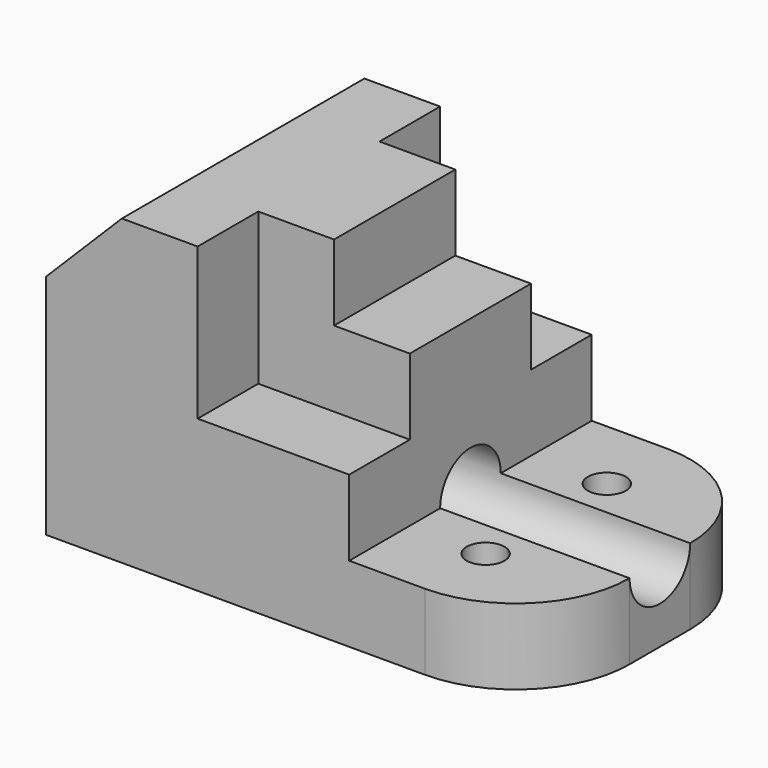
from build123d import *

# Parameters (mm, degrees)
F0_R     = 3.175
F0_W     = 31.75
F0_H     = 12.7
F1_DEPTH = 12.7
F2_DEPTH = 25.4
F3_DEPTH = 38.1
F0_W_2   = 12.7
F0_H_2   = 50.8
F4_DEPTH = 50.8
F6_DEPTH = 50.801
F8_DEPTH = 82.551


with BuildPart() as f1:
    # F0 (on Top) → F1 (new body)
    with BuildSketch(Plane.XY):
        with BuildLine():
            Line((12.7, -12.7), (12.7, -25.4))
            Line((12.7, -25.4), (25.4, -25.4))
            ThreePointArc((25.4, -25.4), (38.870384, -19.820384), (44.45, -6.35))
            Line((44.45, -6.35), (12.7, -6.35))
            Line((12.7, -6.35), (12.7, -12.7))
        make_face()
        with Locations((25.4, -12.7)):
            Circle(F0_R, mode=Mode.SUBTRACT)
        with Locations((28.575, 0)):
            Rectangle(F0_W, F0_H)
        with BuildLine():
            Line((25.4, 25.4), (12.7, 25.4))
            Line((12.7, 25.4), (12.7, 12.7))
            Line((12.7, 12.7), (12.7, 6.35))
            Line((12.7, 6.35), (44.45, 6.35))
            ThreePointArc((44.45, 6.35), (38.870384, 19.820384), (25.4, 25.4))
        make_face()
        with Locations((25.4, 12.7)):
            Circle(F0_R, mode=Mode.SUBTRACT)
    extrude(amount=F1_DEPTH)

    # F0 (on Top) → F2 (join)
    with BuildSketch(Plane.XY):
        Polygon((-12.7, -12.7), (-12.7, -25.4), (12.7, -25.4), (12.7, -12.7), (0, -12.7), align=None)
        Polygon((12.7, 25.4), (-12.7, 25.4), (-12.7, 12.7), (0, 12.7), (12.7, 12.7), align=None)
    extrude(amount=F2_DEPTH)

    # F0 (on Top) → F3 (join)
    with BuildSketch(Plane.XY):
        Polygon((12.7, 12.7), (0, 12.7), (0, -12.7), (12.7, -12.7), (12.7, -6.35), (12.7, 6.35), align=None)
    extrude(amount=F3_DEPTH)

    # F0 (on Top) → F4 (join)
    with BuildSketch(Plane.XY):
        with Locations((-31.75, 0)):
            Rectangle(F0_W_2, F0_H_2)
        Polygon((-12.7, 25.4), (-25.4, 25.4), (-25.4, -25.4), (-12.7, -25.4), (-12.7, -12.7), (0, -12.7), (0, 12.7), (-12.7, 12.7), align=None)
    extrude(amount=F4_DEPTH)

    # F5 (on face) → F6 (cut, through all)
    with BuildSketch(Plane.XZ.offset(25.4)):
        Polygon((-25.4, 50.8), (-38.1, 50.8), (-38.1, 38.1), align=None)
    extrude(amount=-F6_DEPTH, mode=Mode.SUBTRACT)

    # F7 (on face) → F8 (cut, through all)
    with BuildSketch(Plane.YZ.offset(44.45)):
        with BuildLine():
            Line((-6.35, 12.7), (6.35, 12.7))
            ThreePointArc((6.35, 12.7), (0, 19.05), (-6.35, 12.7))
        make_face()
        with BuildLine():
            ThreePointArc((-6.35, 12.7), (0, 6.35), (6.35, 12.7))
            Line((6.35, 12.7), (-6.35, 12.7))
        make_face()
    extrude(amount=-F8_DEPTH, mode=Mode.SUBTRACT)


solid = f1.part
